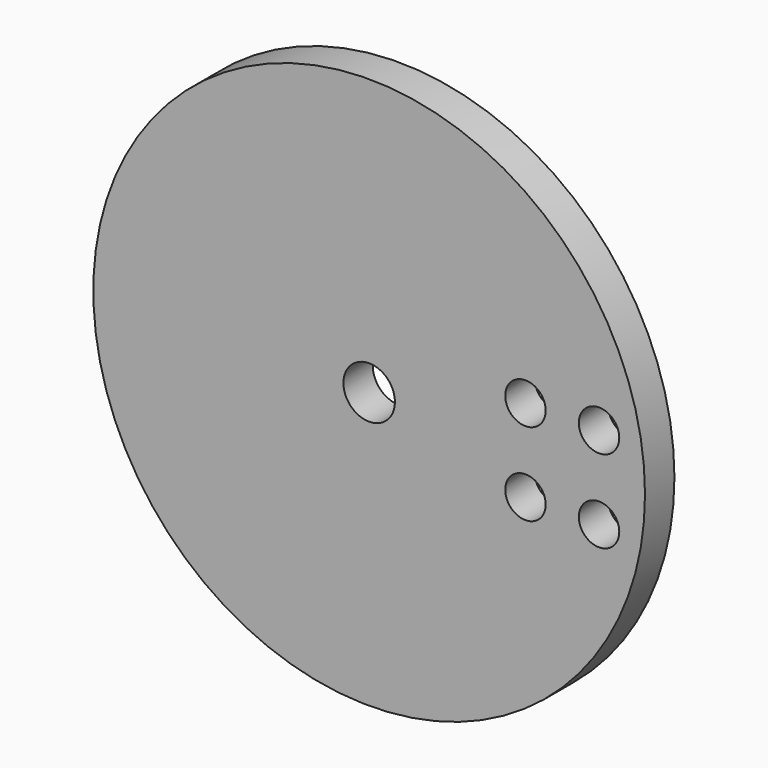
from build123d import *

# Parameters (mm, degrees)
CYLINDER052_R          = 2.8
CYLINDER052_DEPTH      = 10
CYLINDER052_ROLL_ANGLE = -90
CYLINDER047_R          = 2.2
CYLINDER047_DEPTH      = 26
CYLINDER047_ROLL_ANGLE = -90
ARRAY018_X_COUNT       = 2
ARRAY018_X_PITCH       = 8
ARRAY018_Z_COUNT       = 2
ARRAY018_Z_PITCH       = 9
CYLINDER045_R          = 30
CYLINDER045_DEPTH      = 4
CYLINDER045_ROLL_ANGLE = -90


with BuildPart() as obj1:
    # Cylinder052 → Cylinder052 (new body)
    with BuildSketch(Plane.XY):
        Circle(CYLINDER052_R)
    extrude(amount=CYLINDER052_DEPTH)


with BuildPart() as obj1_1:
    # Cylinder052 roll: moved
    add(obj1.part.rotate(Axis((0, 0, 0), (1, 0, 0)), CYLINDER052_ROLL_ANGLE))


with BuildPart() as obj1_2:
    # Cylinder052 placement: moved
    add(obj1_1.part.moved(Location((185, 18, 8.5))))


with BuildPart() as obj2:
    # Cylinder047 → Cylinder047 (new body)
    with BuildSketch(Plane.XY):
        Circle(CYLINDER047_R)
    extrude(amount=CYLINDER047_DEPTH)


with BuildPart() as obj2_1:
    # Cylinder047 roll: moved
    add(obj2.part.rotate(Axis((0, 0, 0), (1, 0, 0)), CYLINDER047_ROLL_ANGLE))


with BuildPart() as obj2_2:
    # Cylinder047 placement: moved
    add(obj2_1.part.moved(Location((202, 0, 4))))

    # Array018 X: obj2_2


with BuildPart() as obj2_3:
    add(obj2_2.part)
    with Locations(*[(i * ARRAY018_X_PITCH, 0, 0) for i in range(1, ARRAY018_X_COUNT)]):
        add(obj2_2.part)

    # Array018 Z: obj2_2


with BuildPart() as obj2_4:
    add(obj2_3.part)
    with Locations(*[(0, 0, i * ARRAY018_Z_PITCH) for i in range(1, ARRAY018_Z_COUNT)]):
        add(obj2_3.part)


with BuildPart() as obj3:
    # Cylinder045 → Cylinder045 (new body)
    with BuildSketch(Plane.XY):
        Circle(CYLINDER045_R)
    extrude(amount=CYLINDER045_DEPTH)


with BuildPart() as obj3_1:
    # Cylinder045 roll: moved
    add(obj3.part.rotate(Axis((0, 0, 0), (1, 0, 0)), CYLINDER045_ROLL_ANGLE))


with BuildPart() as obj3_2:
    # Cylinder045 placement: moved
    add(obj3_1.part.moved(Location((185, 20, 8.5))))

    # Cut053: cut obj2
    add(obj2_4.part, mode=Mode.SUBTRACT)

    # Cut056: cut obj1
    add(obj1_2.part, mode=Mode.SUBTRACT)


with BuildPart() as obj4:
    # Part__Mirroring020: instance of obj3
    add(obj3_2.part.mirror(Plane(origin=(0, 0, 0), x_dir=(1, 0, 0), z_dir=(0, 1, 0))))


with BuildPart() as obj4_1:
    # Part__Mirroring020 placement: moved
    add(obj4.part.moved(Location((0, -178, 0))))


solid = obj4_1.part
